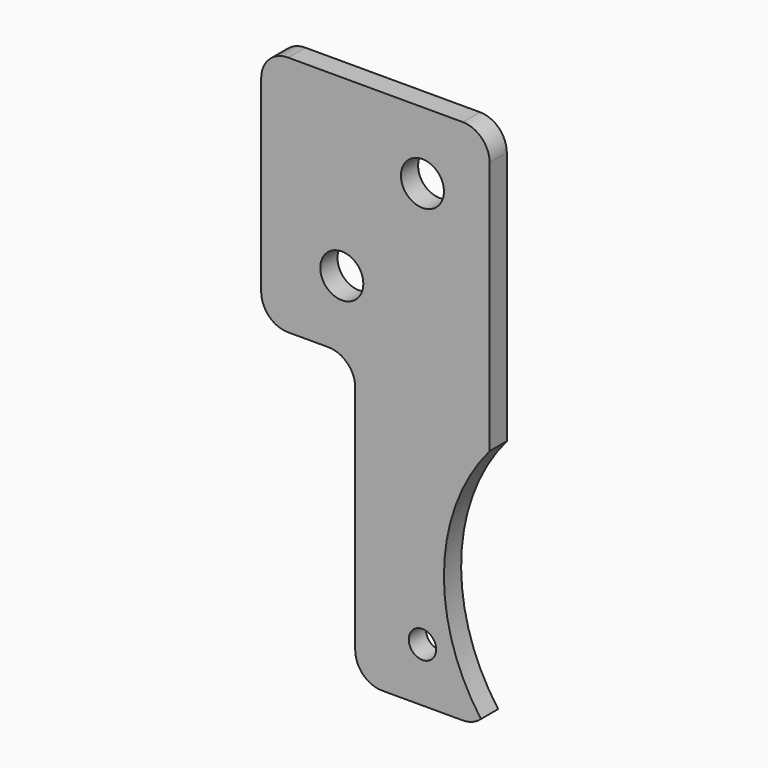
from build123d import *

# Parameters (mm, degrees)
F0_R     = 2.55
F0_R_2   = 4
F1_DEPTH = 4


with BuildPart() as f1:
    # F0 (on Front) → F1 (new body)
    with BuildSketch(Plane.XZ):
        with BuildLine():
            Line((0, 48), (0, 5))
            ThreePointArc((0, 5), (1.464466, 1.464466), (5, 0))
            Line((5, 0), (20, 0))
            ThreePointArc((20, 0), (21.81842, 0.342388), (23.387798, 1.322661))
            ThreePointArc((23.387798, 1.322661), (16.523699, 23.80604), (25, 45.73252))
            Line((25, 45.73252), (25, 93))
            ThreePointArc((25, 93), (23.535534, 96.535534), (20, 98))
            Line((20, 98), (-12.5, 98))
            ThreePointArc((-12.5, 98), (-16.035534, 96.535534), (-17.5, 93))
            Line((-17.5, 93), (-17.5, 58))
            ThreePointArc((-17.5, 58), (-16.035534, 54.464466), (-12.5, 53))
            Line((-12.5, 53), (-5, 53))
            ThreePointArc((-5, 53), (-1.464466, 51.535534), (0, 48))
        make_face()
        with Locations((12.5, 10)):
            Circle(F0_R, mode=Mode.SUBTRACT)
        with Locations((-2.5, 65.5)):
            Circle(F0_R_2, mode=Mode.SUBTRACT)
        with Locations((12.5, 85.5)):
            Circle(F0_R_2, mode=Mode.SUBTRACT)
    extrude(amount=F1_DEPTH)


solid = f1.part
